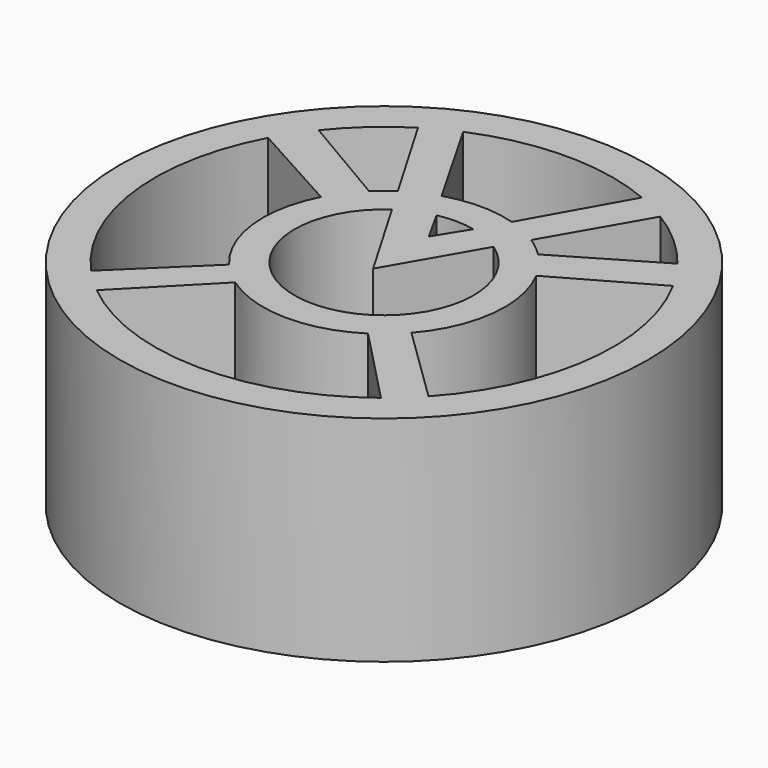
from build123d import *

# Parameters (mm, degrees)
F0_R     = 31.317673
F1_DEPTH = 25.4


with BuildPart() as f1:
    # F0 (on Top) → F1 (new body)
    with BuildSketch(Plane.XY):
        with Locations((33.811189, 37.327241)):
            Circle(F0_R)
        with BuildLine():
            Line((41.56919, 25.256582), (50.567981, 15.93107))
            ThreePointArc((50.567981, 15.93107), (33.474713, 10.152381), (16.529765, 16.352527))
            Line((16.529765, 16.352527), (25.564757, 25.58485))
            ThreePointArc((25.564757, 25.58485), (33.516942, 22.981482), (41.56919, 25.256582))
        make_face(mode=Mode.SUBTRACT)
        with BuildLine():
            Line((22.8971, 28.012197), (13.680491, 19.069607))
            ThreePointArc((13.680491, 19.069607), (6.840377, 33.986352), (9.834111, 50.121222))
            Line((9.834111, 50.121222), (21.065517, 43.917782))
            ThreePointArc((21.065517, 43.917782), (19.556611, 35.685777), (22.8971, 28.012197))
        make_face(mode=Mode.SUBTRACT)
        with BuildLine():
            Line((27.77017, 46.058792), (33.811189, 35.720903))
            Line((33.811189, 35.720903), (39.788213, 46.102723))
            ThreePointArc((39.788213, 46.102723), (33.850001, 26.70969), (27.77017, 46.058792))
        make_face(mode=Mode.SUBTRACT)
        with BuildLine():
            Line((46.497765, 44.030837), (57.662328, 50.354497))
            ThreePointArc((57.662328, 50.354497), (60.786253, 34.020858), (53.809983, 18.925218))
            Line((53.809983, 18.925218), (44.616055, 27.885723))
            ThreePointArc((44.616055, 27.885723), (48.063492, 35.666138), (46.497765, 44.030837))
        make_face(mode=Mode.SUBTRACT)
        with BuildLine():
            Line((19.405959, 60.372318), (25.883617, 49.287216))
            ThreePointArc((25.883617, 49.287216), (24.8069, 48.499088), (23.808049, 47.614349))
            Line((23.808049, 47.614349), (12.538999, 54.241145))
            ThreePointArc((12.538999, 54.241145), (15.710985, 57.599607), (19.405959, 60.372318))
        make_face(mode=Mode.SUBTRACT)
        with BuildLine():
            Line((29.66131, 51.062811), (23.179498, 62.338306))
            ThreePointArc((23.179498, 62.338306), (33.752389, 64.504121), (44.334553, 62.384077))
            Line((44.334553, 62.384077), (37.982627, 51.05628))
            ThreePointArc((37.982627, 51.05628), (33.822452, 51.676013), (29.66131, 51.062811))
        make_face(mode=Mode.SUBTRACT)
        with BuildLine():
            Line((33.815131, 43.9597), (31.714889, 47.735863))
            ThreePointArc((31.714889, 47.735863), (33.919123, 47.944314), (36.118664, 47.691094))
            Line((36.118664, 47.691094), (33.815131, 43.9597))
        make_face(mode=Mode.SUBTRACT)
        with BuildLine():
            ThreePointArc((48.05954, 60.469642), (51.910755, 57.600178), (55.196729, 54.0976))
            Line((55.196729, 54.0976), (43.949551, 47.481108))
            ThreePointArc((43.949551, 47.481108), (42.849738, 48.471388), (41.653774, 49.343117))
            Line((41.653774, 49.343117), (48.05954, 60.469642))
        make_face(mode=Mode.SUBTRACT)
    extrude(amount=F1_DEPTH)


solid = f1.part
